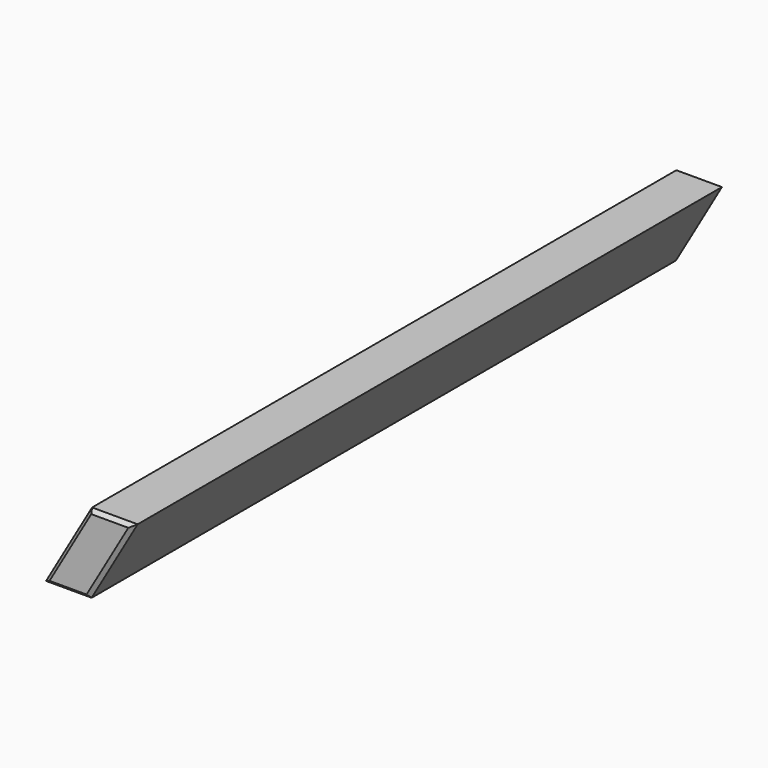
from build123d import *

# Parameters (mm, degrees)
F1_DEPTH = 100
F2_SIZE  = 0.5


with BuildPart() as f1:
    # F0 (on Front) → F1 (new body)
    with BuildSketch(Plane.XZ):
        Polygon((6.235383, 10.8), (0, 0), (6.177648, 0), (12.413031, 10.8), align=None)
    extrude(amount=F1_DEPTH)

    # F2
    f2_edges = [f1.edges().sort_by_distance(p)[0] for p in [
        (9.324207, -100, 10.8),
        (3.117691, -100, 5.4),
        (9.295339, -100, 5.4),
        (3.088824, -100, 0),
        (9.295339, 0, 5.4),
        (3.117691, 0, 5.4),
        (3.088824, 0, 0),
        (9.324207, 0, 10.8),
    ]]
    chamfer(f2_edges, length=F2_SIZE)


solid = f1.part
